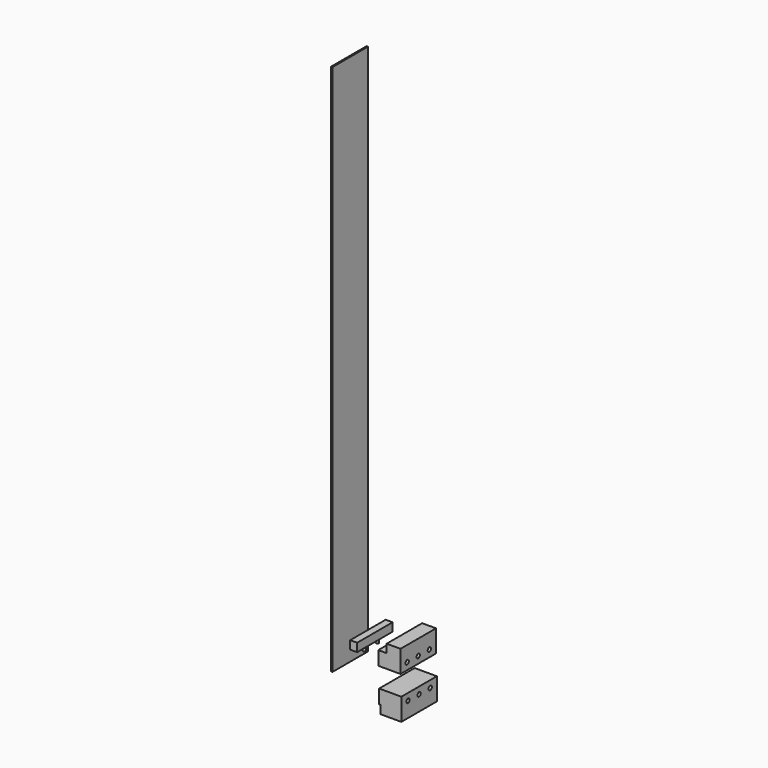
from build123d import *

# Parameters (mm, degrees)
F0_W      = 15.875
F0_H      = 19.05
F1_DEPTH  = 101.6
F2_DEPTH  = 101.6
F3_DEPTH  = 101.6
F5_D      = 6.35
F7_D      = 9.525
F8_R      = 3.175
F9_DEPTH  = 12.7
F11_D     = 9.525
F12_W     = 3.175
F12_H     = 1219.2
F13_DEPTH = 101.6


with BuildPart() as f1:
    # F0 (on Front) → F1 (new body)
    with BuildSketch(Plane.XZ):
        with Locations((-117.4566584981, 50.3567663363)):
            Rectangle(F0_W, F0_H)
    extrude(amount=F1_DEPTH)

    # F8 (on face) → F9 (join)
    with BuildSketch(Plane(origin=(0, 0, 40.8317663363), x_dir=(1, 0, 0), z_dir=(0, 0, -1))):
        with Locations((-119.0441584981, 69.85)):
            Circle(F8_R)
        with Locations((-119.0441584981, 31.75)):
            Circle(F8_R)
    extrude(amount=F9_DEPTH)


with BuildPart() as f2:
    # F0 (on Front) → F2 (new body)
    with BuildSketch(Plane.XZ):
        Polygon((-41.9419813405, 60.9227498979), (-60.9919813405, 60.9227498979), (-60.9919813405, 29.1727498979), (-10.1919813405, 29.1727498979), (-10.1919813405, 79.9727498979), (-41.9419813405, 79.9727498979), align=None)
    extrude(amount=F2_DEPTH)

    # F5 (through all)
    with Locations(Plane.XY.offset(60.9227498979)):
        with Locations((-51.4669813405, -31.75), (-51.4669813405, -69.85)):
            Hole(F5_D / 2)

    # F7 (through all)
    with Locations(Plane(origin=(-60.9919813405, 0, 0), x_dir=(0, -1, 0), z_dir=(-1, 0, 0))):
        with Locations((19.05, 45.0477498979), (50.8, 45.0477498979), (82.55, 45.0477498979)):
            Hole(F7_D / 2)


with BuildPart() as f3:
    # F0 (on Front) → F3 (new body)
    with BuildSketch(Plane.XZ):
        Polygon((-8.2488123913, -15.9712382287), (-59.0488123913, -15.9712382287), (-59.0488123913, -47.7212382287), (-55.8738123913, -47.7212382287), (-55.8738123913, -66.7712382287), (-8.2488123913, -66.7712382287), align=None)
    extrude(amount=F3_DEPTH)

    # F11 (through all)
    with Locations(Plane(origin=(-59.0488123913, 0, 0), x_dir=(0, -1, 0), z_dir=(-1, 0, 0))):
        with Locations((19.05, -31.8462382287), (50.8, -31.8462382287), (82.55, -31.8462382287)):
            Hole(F11_D / 2)


with BuildPart() as f13:
    # F12 (on Front) → F13 (new body)
    with BuildSketch(Plane.XZ):
        with Locations((-167.4167439342, 592.335337542)):
            Rectangle(F12_W, F12_H)
    extrude(amount=F13_DEPTH)


solid = Compound([f1.part, f2.part, f3.part, f13.part])
